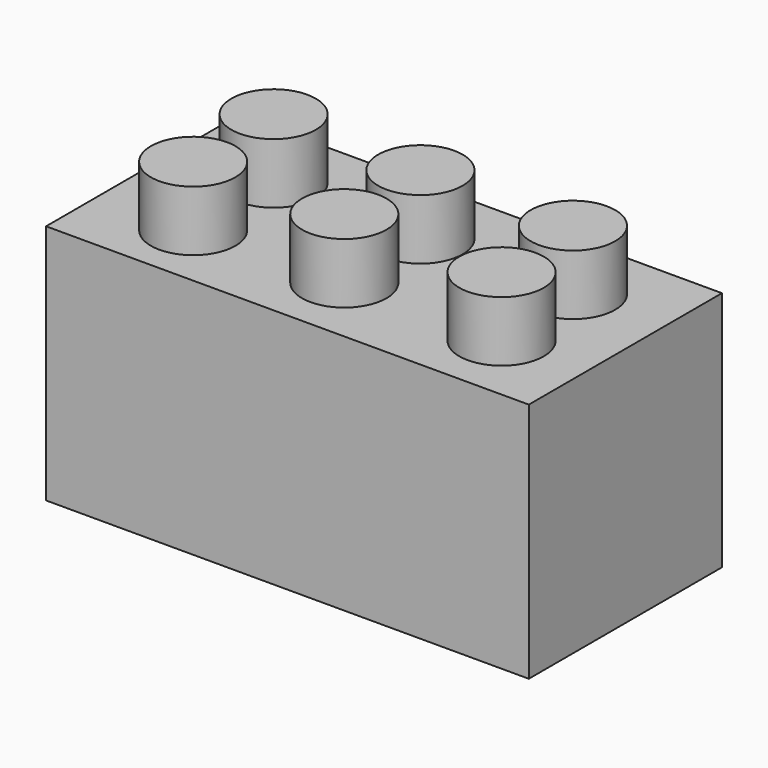
from build123d import *

# Parameters (mm, degrees)
F0_W     = 25.4
F0_H     = 12.7
F1_DEPTH = 12.7
F2_R     = 2.2225
F3_DEPTH = 3.175


with BuildPart() as f1:
    # F0 (on Front) → F1 (new body)
    with BuildSketch(Plane.XZ):
        Rectangle(F0_W, F0_H)
    extrude(amount=F1_DEPTH)

    # F2 (on face) → F3 (join)
    with BuildSketch(Plane.XY.offset(6.35)):
        with Locations((-7.762069, -9.199759)):
            Circle(F2_R)
        with Locations((0, -8.961292)):
            Circle(F2_R)
        with Locations((8.274858, -8.961292)):
            Circle(F2_R)
        with Locations((7.976773, -3.893862)):
            Circle(F2_R)
        with Locations((0, -3.953478)):
            Circle(F2_R)
        with Locations((-7.821687, -3.834245)):
            Circle(F2_R)
    extrude(amount=F3_DEPTH)


solid = f1.part
